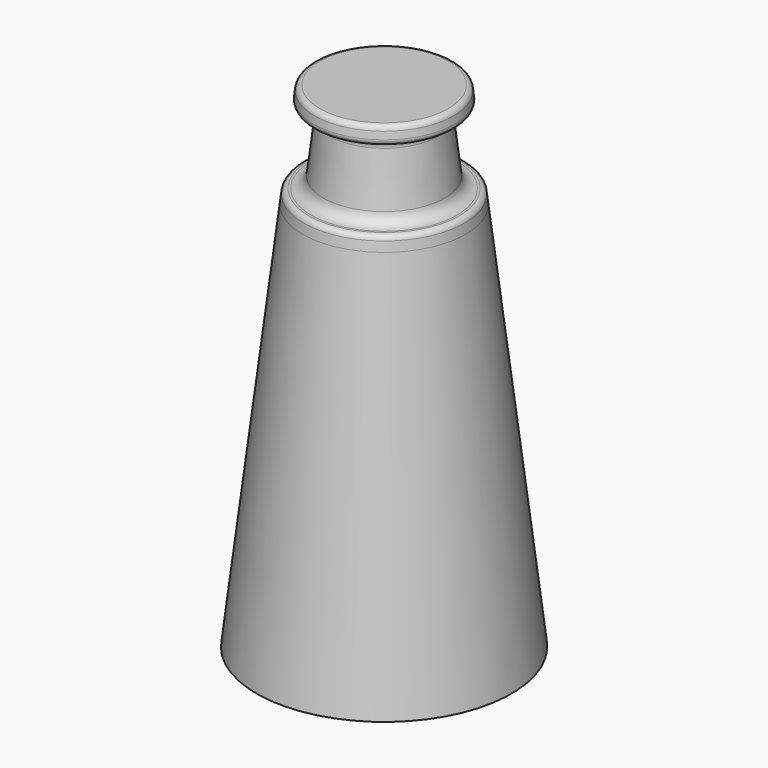
from build123d import *


with BuildPart() as f1:
    # F0 (on Front) → F1 (revolve)
    with BuildSketch(Plane.XZ):
        with BuildLine():
            Line((-226.918178, 1126.759424), (-230.07874, 1100))
            Line((-230.07874, 1100), (0, 1100))
            Line((0, 1100), (0, 1397))
            Line((0, 1397), (-181.667391, 1397))
            ThreePointArc((-181.667391, 1397), (-191.632546, 1393.211408), (-196.563848, 1383.759424))
            Line((-196.563848, 1383.759424), (-198.926052, 1363.759424))
            ThreePointArc((-198.926052, 1363.759424), (-195.241004, 1352.034845), (-184.029595, 1347))
            Line((-184.029595, 1347), (-178.684496, 1347))
            ThreePointArc((-178.684496, 1347), (-159.998815, 1338.608592), (-153.857068, 1319.067627))
            Line((-153.857068, 1319.067627), (-171.35781, 1170.894677))
            ThreePointArc((-171.35781, 1170.894677), (-182.864181, 1148.840047), (-206.11621, 1140))
            Line((-206.11621, 1140), (-212.021721, 1140))
            ThreePointArc((-212.021721, 1140), (-221.986877, 1136.211408), (-226.918178, 1126.759424))
        make_face()
    revolve(axis=Axis((0, 0, 717.126846), (0, 0, 1)))


with BuildPart() as f2:
    # F0 (on Front) → F2 (revolve)
    with BuildSketch(Plane.XZ):
        Polygon((-230.07874, 1100), (-360, 0), (0, 0), (0, 1100), align=None)
    revolve(axis=Axis((0, 0, 550), (0, 0, -1)))


solid = Compound([f1.part, f2.part])
